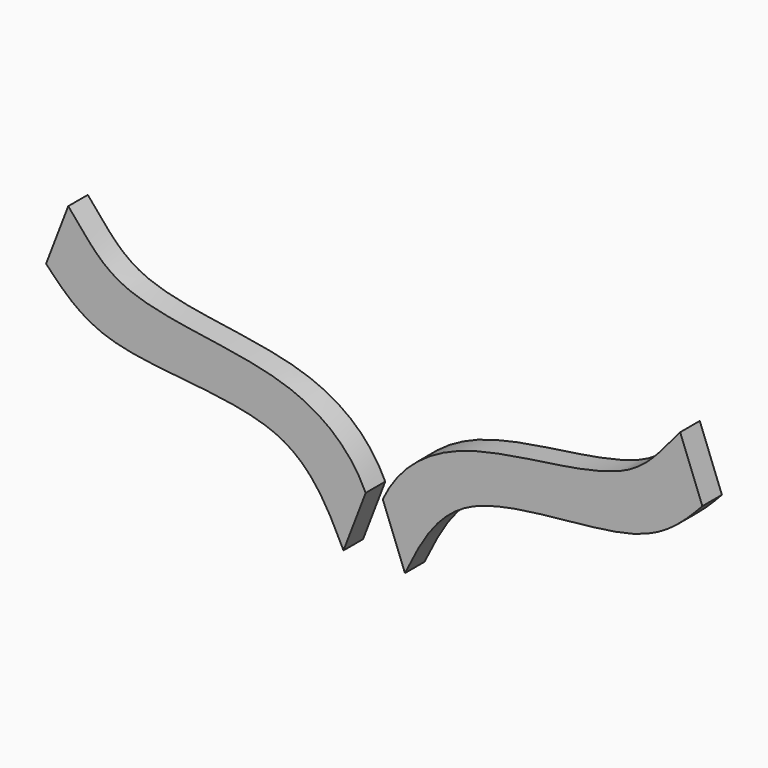
from build123d import *

# Parameters (mm, degrees)
F1_DEPTH = 3.175


with BuildPart() as f1:
    # F0 (on Front) → F1 (new body)
    with BuildSketch(Plane.XZ):
        with BuildLine():
            add(Edge.make_bspline(
                [(-3.9854812818, 0.9842760097), (-6.0023338376, 5.1103509472), (-10.5913869782, 14.498631264), (-34.8959990696, 13.0417649018), (-40.3542204214, 18.8269487454), (-42.583839913, 21.1901285853)],
                knots=[0, 0, 0, 0, 0.3168475214, 0.7209402141, 1, 1, 1, 1], degree=3))
            Line((-3.9854812818, 0.9842760097), (-1.1083352762, 8.4967085328))
            add(Edge.make_bspline(
                [(-1.1083352762, 8.4967085328), (-3.125295664, 12.7968090919), (-11.0396756379, 19.6233209833), (-33.5684157766, 19.5914970387), (-37.5564129226, 26.3478639972), (-39.7075656253, 28.7025620397)],
                knots=[0, 0, 0, 0, 0.3276795628, 0.7260598425, 1, 1, 1, 1], degree=3))
            Line((-39.7075656253, 28.7025620397), (-42.583839913, 21.1901285853))
        make_face()
    extrude(amount=F1_DEPTH)


with BuildPart() as f1b:
    # F0 (on Front) → F1, piece 2 (new body)
    with BuildSketch(Plane.XZ):
        with BuildLine():
            Line((1.1083352762, 8.4967085328), (3.9854812818, 0.9842760097))
            add(Edge.make_bspline(
                [(3.9854812818, 0.9842760097), (6.0023338376, 5.1103509472), (10.5913869782, 14.498631264), (34.8959990696, 13.0417649018), (40.3542204214, 18.8269487454), (42.583839913, 21.1901285853)],
                knots=[0, 0, 0, 0, 0.3168475214, 0.7209402141, 1, 1, 1, 1], degree=3))
            Line((42.583839913, 21.1901285853), (39.7075656253, 28.7025620397))
            add(Edge.make_bspline(
                [(1.1083352762, 8.4967085328), (3.125295664, 12.7968090919), (11.0396756379, 19.6233209833), (33.5684157766, 19.5914970387), (37.5564129226, 26.3478639972), (39.7075656253, 28.7025620397)],
                knots=[0, 0, 0, 0, 0.3276795628, 0.7260598425, 1, 1, 1, 1], degree=3))
        make_face()
    extrude(amount=F1_DEPTH)


solid = Compound([f1.part, f1b.part])
